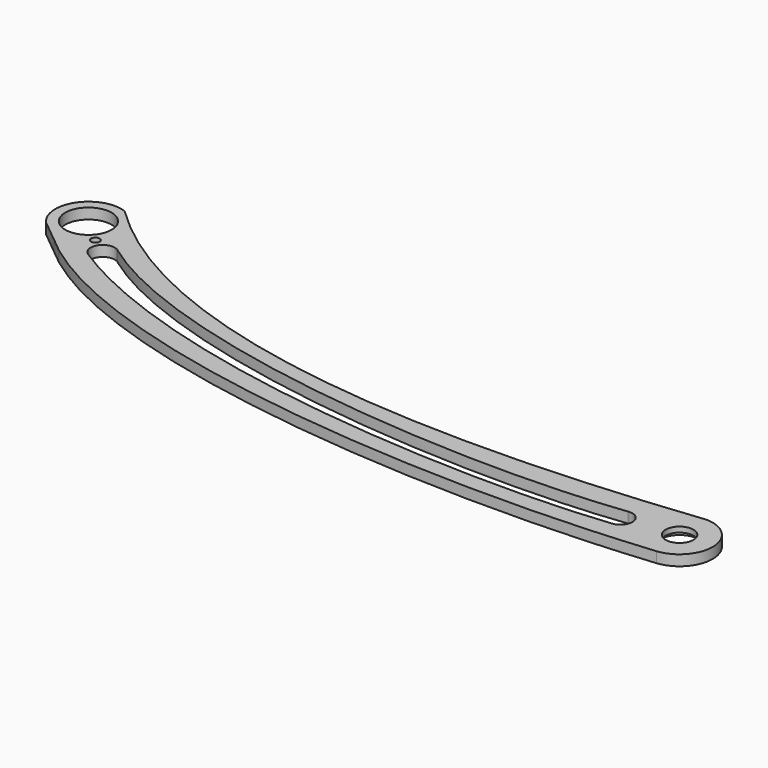
from build123d import *

# Parameters (mm, degrees)
F0_R      = 2.667
F0_R_2    = 4.445
F1_DEPTH  = 2.032
F2_R      = 3.81
F2_R_2    = 2.667
F3_DEPTH  = 1.016
F4_R      = 0.8255
F5_DEPTH  = 25.4
F6_R      = 1.27
F6_R_2    = 0.8255
F7_DEPTH  = 1.016
F8_DEPTH  = 1.016
F9_R      = 1.27
F9_R_2    = 0.8255
F9_R_3    = 3.81
F9_R_4    = 2.667
F10_DEPTH = 1.016


with BuildPart() as f1:
    # F0 (on Top) → F1 (new body)
    with BuildSketch(Plane.XY):
        with BuildLine():
            add(Edge.make_bspline(
                [(-145.8688657386, -44.8941665066), (-120.4979013513, -64.0094905591), (-61.2157028163, -69.6417423021), (-14.9939787657, -65.1516662724)],
                knots=[9.1704042636, 9.1704042636, 9.1704042636, 9.1704042636, 137.9629328019, 137.9629328019, 137.9629328019, 137.9629328019], degree=3))
            ThreePointArc((-14.9939787657, -65.1516662724), (-9.3240486247, -58.5746731476), (-15.5187291961, -52.4893729096))
            add(Edge.make_bspline(
                [(-146.219773699, -28.7446715558), (-115.4057267109, -58.8297417696), (-57.5004960396, -57.185757191), (-15.5187291961, -52.4893729096)],
                knots=[0, 0, 0, 0, 132.8404075443, 132.8404075443, 132.8404075443, 132.8404075443], degree=3))
            ThreePointArc((-146.219773699, -28.7446715558), (-153.6835655793, -31.2301073118), (-153.0025163181, -39.0673103865))
            Line((-153.0025163181, -39.0673103865), (-148.6487479934, -42.6235234818))
            Line((-148.6487479934, -42.6235234818), (-145.8688657386, -44.8941665066))
        make_face()
        with BuildLine():
            ThreePointArc((-139.2748018361, -39.2084827255), (-139.1474453557, -39.29610811), (-139.0263023063, -39.3921406184))
            add(Edge.make_bspline(
                [(-139.0263023063, -39.3921406184), (-115.7533807903, -56.4645604087), (-60.1022871914, -61.7792620614), (-26.4109737279, -57.7751529221)],
                knots=[0.4075873512, 0.4075873512, 0.4075873512, 0.4075873512, 114.3528485972, 114.3528485972, 114.3528485972, 114.3528485972], degree=3))
            ThreePointArc((-26.4109737279, -57.7751529221), (-26.3245090015, -57.7631456427), (-26.237648884, -57.754448306))
            ThreePointArc((-26.237648884, -57.754448306), (-23.7748016763, -59.8487204067), (-25.869073777, -62.3115676144))
            add(Edge.make_bspline(
                [(-25.869073777, -62.3115676144), (-50.1594431698, -65.0675445795), (-110.3361174464, -63.282199204), (-141.7372077703, -43.1182831526)],
                knots=[0, 0, 0, 0, 117.4470376107, 117.4470376107, 117.4470376107, 117.4470376107], degree=3))
            ThreePointArc((-141.7372077703, -43.1182831526), (-142.408403822, -39.9652454073), (-139.2748018361, -39.2084827255))
        make_face(mode=Mode.SUBTRACT)
        with Locations((-15.6686027753, -58.8376039948)):
            Circle(F0_R, mode=Mode.SUBTRACT)
        with Locations((-148.3766692678, -34.7171334858)):
            Circle(F0_R_2, mode=Mode.SUBTRACT)
    extrude(amount=F1_DEPTH)

    # F2 (on face) → F3 (cut)
    with BuildSketch(Plane.XY.offset(2.032)):
        with Locations((-15.6686027753, -58.8376039948)):
            Circle(F2_R)
        with Locations((-15.6686027753, -58.8376039948)):
            Circle(F2_R_2, mode=Mode.SUBTRACT)
    extrude(amount=-F3_DEPTH, mode=Mode.SUBTRACT)

    # F4 (on face) → F5 (cut)
    with BuildSketch(Plane.XY.offset(2.032)):
        with Locations((-143.7340378761, -38.8674512506)):
            Circle(F4_R)
    extrude(amount=-F5_DEPTH, mode=Mode.SUBTRACT)

    # F6 (on face) → F7 (cut)
    with BuildSketch(Plane.XY.offset(2.032)):
        with Locations((-143.7340378761, -38.8674512506)):
            Circle(F6_R)
        with Locations((-143.7340378761, -38.8674512506)):
            Circle(F6_R_2, mode=Mode.SUBTRACT)
    extrude(amount=-F7_DEPTH, mode=Mode.SUBTRACT)

    # F8 (add, through all): faces of the model
    f8_faces = [f1.faces().sort_by_distance(p)[0] for p in [
        (-144.9681168516, -38.8674512506, 1.016),
        (-19.3708397018, -58.8376039948, 1.016),
    ]]
    extrude(f8_faces, amount=F8_DEPTH)

    # F9 (on face) → F10 (cut)
    with BuildSketch(Plane(origin=(0, 0, 0), x_dir=(1, 0, 0), z_dir=(0, 0, -1))):
        with Locations((-143.7340378761, 38.8674512506)):
            Circle(F9_R)
        with Locations((-143.7340378761, 38.8674512506)):
            Circle(F9_R_2, mode=Mode.SUBTRACT)
        with Locations((-15.6686027753, 58.8376039948)):
            Circle(F9_R_3)
        with Locations((-15.6686027753, 58.8376039948)):
            Circle(F9_R_4, mode=Mode.SUBTRACT)
    extrude(amount=-F10_DEPTH, mode=Mode.SUBTRACT)


solid = f1.part
